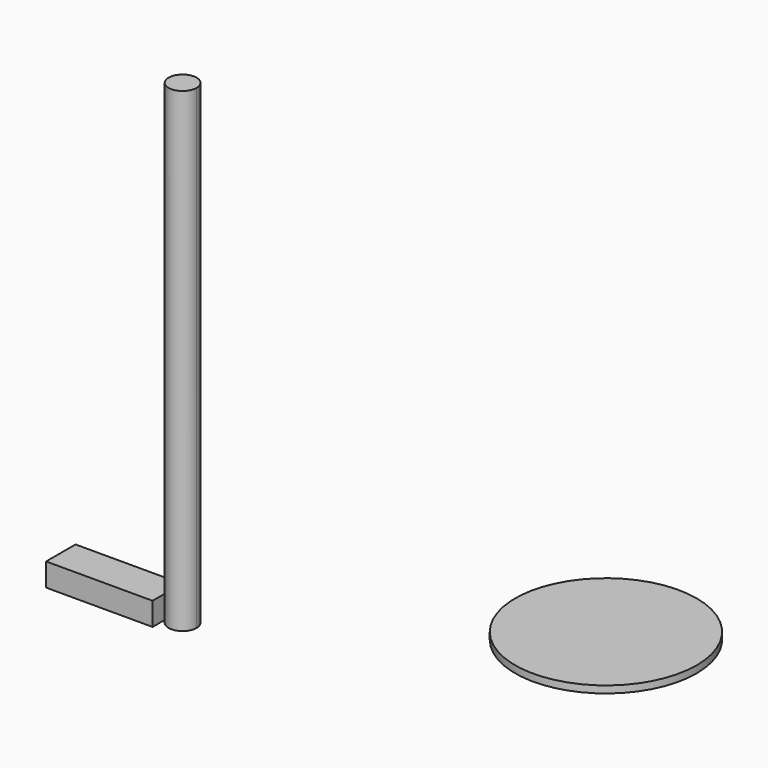
from build123d import *

# Parameters (mm, degrees)
F1_DEPTH = 68.072
F2_DEPTH = 3.302
F0_R     = 12.98991
F3_DEPTH = 1.016


with BuildPart() as f1:
    # F0 (on Top) → F1 (new body)
    with BuildSketch(Plane.XY):
        with BuildLine():
            ThreePointArc((-15.725264, 6.228324), (-17.726766, 8.229825), (-19.728268, 6.228324))
            ThreePointArc((-19.728268, 6.228324), (-17.726766, 4.226822), (-15.725264, 6.228324))
        make_face()
    extrude(amount=F1_DEPTH)

    # F0 (on Top) → F2 (join)
    with BuildSketch(Plane.XY):
        Polygon((-19.728268, 6.228324), (-19.728268, 8.623832), (-34.97443, 8.623832), (-34.97443, 3.353713), (-19.728268, 3.353713), align=None)
    extrude(amount=F2_DEPTH)


with BuildPart() as f3:
    # F0 (on Top) → F3 (new body)
    with BuildSketch(Plane.XY):
        with Locations((21.799132, 32.578923)):
            Circle(F0_R)
    extrude(amount=F3_DEPTH)


solid = Compound([f1.part, f3.part])
